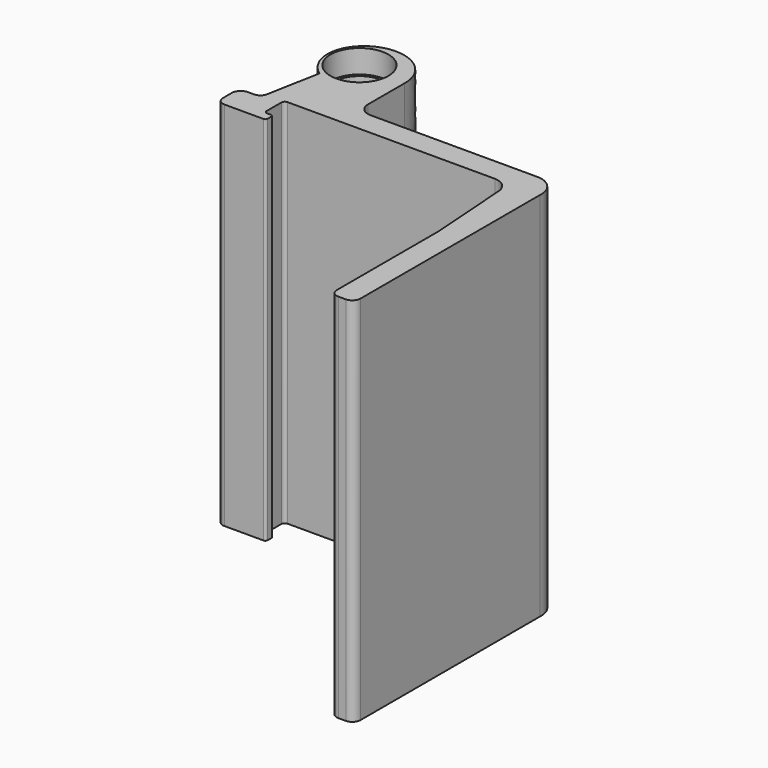
from build123d import *

# Parameters (mm, degrees)
SKETCH_R        = 2.25
PAD_DEPTH       = 32
SKETCH005_W     = 9.375375
SKETCH005_H     = 7.7
POCKET003_DEPTH = 9
SKETCH006_R     = 2.5
POCKET_DEPTH    = 2
SKETCH007_R     = 2.5
POCKET004_DEPTH = 2


with BuildPart() as part:
    # Sketch → Pad (new body)
    with BuildSketch(Plane.XY):
        with BuildLine():
            Line((21.315765, -4.2e-05), (20.668644, -4.2e-05))
            ThreePointArc((20.668644, -4.2e-05), (20.195841, 0.195799), (20, 0.668602))
            Line((20, 0.668602), (20, 11.66923))
            Line((20, 11.66923), (19.499999, 18.736793))
            ThreePointArc((19.499999, 18.736793), (19.081426, 19.626884), (18.171344, 20))
            Line((18.171344, 20), (0.299523, 20))
            ThreePointArc((0.299523, 20), (0.089647, 19.914364), (-0.00041, 19.706346))
            Line((-0.00041, 19.706346), (-0.00041, 18.108035))
            ThreePointArc((-0.00041, 18.108035), (0.06988, 17.93834), (0.239575, 17.86805))
            Line((0.239575, 17.86805), (0.556635, 17.86805))
            ThreePointArc((0.556635, 17.86805), (0.698252, 17.809668), (0.756635, 17.66805))
            Line((0.756635, 17.66805), (0.756635, 17.277753))
            ThreePointArc((0.756635, 17.277753), (0.702338, 17.132051), (0.556635, 17.077754))
            Line((0.556635, 17.077754), (-2.806351, 17.077754))
            ThreePointArc((-2.806351, 17.077754), (-3.281134, 17.274416), (-3.477796, 17.749199))
            Line((-3.477796, 17.749199), (-3.477796, 18.713266))
            ThreePointArc((-3.477796, 18.713266), (-3.254024, 19.253501), (-2.713789, 19.477273))
            Line((-2.713789, 19.477273), (-2.17988, 19.477273))
            ThreePointArc((-2.17988, 19.477273), (-1.683432, 19.682909), (-1.477796, 20.179357))
            Line((-1.477796, 20.179357), (-0.641937, 24.61424))
            add(Edge.make_bspline(
                [(4.72723, 27.084848), (4.845872, 32.305125), (-0.102828, 30.027993), (-5.051528, 27.750862), (-0.641937, 24.61424)],
                knots=[3.141593, 3.141593, 3.141593, 5.18759, 5.18759, 7.233588, 7.233588, 7.233588], degree=2, weights=[1, 0.520808, 1, 0.520808, 1]))
            Line((4.72723, 27.084848), (4.72723, 23.120815))
            ThreePointArc((4.72723, 23.120815), (5.054887, 22.330429), (5.845399, 22.003078))
            Line((5.845399, 22.003078), (20.081244, 22.003078))
            ThreePointArc((20.081244, 22.003078), (21.496678, 21.47621), (22.023546, 20.060776))
            Line((22.023546, 20.060776), (22.023546, 0.707739))
            ThreePointArc((22.023546, 0.707739), (21.816242, 0.207263), (21.315765, -4.2e-05))
        make_face()
        with Locations((0.70955, 27.234343)):
            Circle(SKETCH_R, mode=Mode.SUBTRACT)
    extrude(amount=PAD_DEPTH)

    # Sketch005 → Pocket003 (cut)
    with BuildSketch(Plane.YZ):
        with Locations((25.630559, 16)):
            Rectangle(SKETCH005_W, SKETCH005_H)
    extrude(amount=-POCKET003_DEPTH, mode=Mode.SUBTRACT)

    # Sketch006 (on Face5 of Pocket003) → Pocket (cut)
    with BuildSketch(Plane.XY.offset(32)):
        with Locations((0.70955, 27.234343)):
            Circle(SKETCH006_R)
    extrude(amount=-POCKET_DEPTH, mode=Mode.SUBTRACT)

    # Sketch007 (on Face4 of Pocket003) → Pocket004 (cut)
    with BuildSketch(Plane(origin=(0, 0, 0), x_dir=(1, 0, 0), z_dir=(0, 0, -1))):
        with Locations((0.70955, -27.234343)):
            Circle(SKETCH007_R)
    extrude(amount=-POCKET004_DEPTH, mode=Mode.SUBTRACT)


solid = part.part
